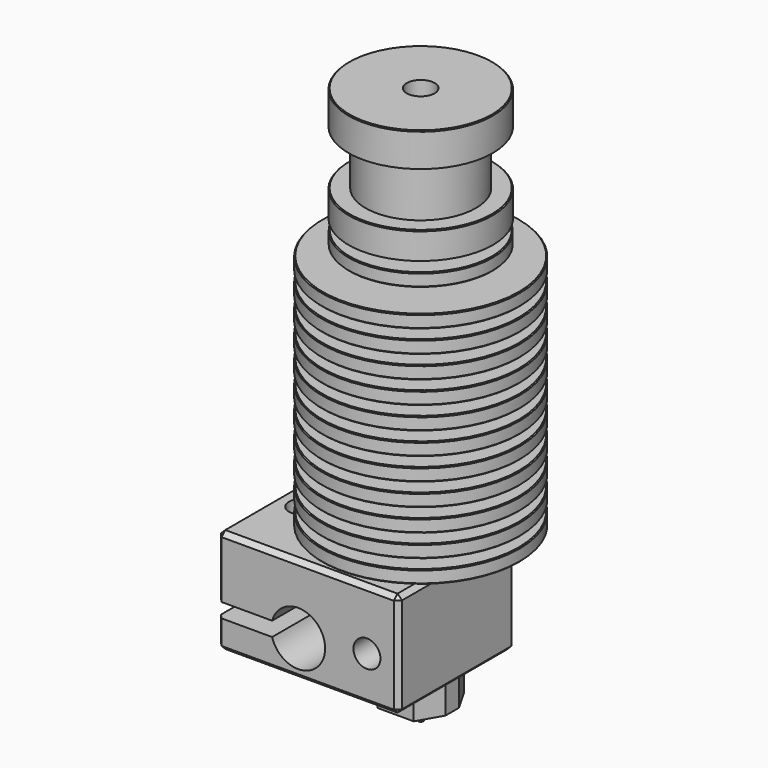
from build123d import *

# Parameters (mm, degrees)
F0_R      = 11
F0_R_2    = 1.55
F1_DEPTH  = 42.85
F4_SIZE   = 0.1
F6_DEPTH  = 2.4
F7_W      = 20.15
F7_H      = 16.2
F7_R      = 1.5
F8_DEPTH  = 11.65
F9_R      = 1.5
F10_DEPTH = 5
F11_DEPTH = 16.2
F12_SIZE  = 0.5
F14_DEPTH = 3
F15_R     = 1.75
F15_R_2   = 0.2
F16_DEPTH = 2


with BuildPart() as f1:
    # F0 (on Top) → F1 (new body)
    with BuildSketch(Plane.XY):
        Circle(F0_R)
        Circle(F0_R_2, mode=Mode.SUBTRACT)
    extrude(amount=F1_DEPTH)

    # F2 (on Front) → F3 (revolve, cut)
    with BuildSketch(Plane.XZ):
        Polygon((10.9999934211, 1.45), (10.9999934211, 0), (14.4045054913, 0), (14.4045054913, 42.85), (8.0165015534, 42.85), (8.0165015534, 39.1), (6.1329784803, 39.1), (6.1329784803, 33.1), (8.0165015534, 33.1), (8.0165015534, 30.1), (4.1999934211, 30.1), (4.1999934211, 28.9512349205), (8, 28.9512349205), (8, 27.5), (4.1999934211, 27.5), (4.1999934211, 26.45), (10.9999934211, 26.45), (10.9999934211, 25), (4.3999934211, 25), (4.3999934211, 23.95), (10.9999934211, 23.95), (10.9999934211, 22.5), (4.5999934211, 22.5), (4.5999934211, 21.45), (10.9999934211, 21.45), (10.9999934211, 20), (4.7999934211, 20), (4.7999934211, 18.95), (10.9999934211, 18.95), (10.9999934211, 17.5), (4.9999934211, 17.5), (4.9999934211, 16.45), (10.9999934211, 16.45), (10.9999934211, 15), (5.1999934211, 15), (5.1999934211, 13.95), (10.9999934211, 13.95), (10.9999934211, 12.5), (5.3999934211, 12.5), (5.3999934211, 11.45), (10.9999934211, 11.45), (10.9999934211, 10), (5.5999934211, 10), (5.5999934211, 8.95), (10.9999934211, 8.95), (10.9999934211, 7.5), (5.7999934211, 7.5), (5.7999934211, 6.45), (10.9999934211, 6.45), (10.9999934211, 5), (5.9999934211, 5), (5.9999934211, 3.95), (10.9999934211, 3.95), (10.9999934211, 2.5), (6.1999934211, 2.5), (6.1999934211, 1.45), align=None)
    revolve(axis=Axis((0, 0, 0), (0, 0, -1)), mode=Mode.SUBTRACT)

    # F4
    f4_edges = [f1.edges().sort_by_distance(p)[0] for p in [
        (-8.016502, 0, 42.85),
        (-8.016502, 0, 33.1),
        (-8, 0, 28.951235),
        (-8, 0, 27.5),
        (-10.999993, 0, 26.45),
        (-10.999993, 0, 25),
        (-10.999993, 0, 23.95),
        (-10.999993, 0, 22.5),
        (-10.999993, 0, 21.45),
        (-10.999993, 0, 20),
        (-10.999993, 0, 18.95),
        (-10.999993, 0, 17.5),
        (-10.999993, 0, 16.45),
        (-10.999993, 0, 15),
        (-10.999993, 0, 13.95),
        (-10.999993, 0, 12.5),
        (-10.999993, 0, 11.45),
        (-10.999993, 0, 10),
        (-10.999993, 0, 8.95),
        (-10.999993, 0, 7.5),
        (-10.999993, 0, 6.45),
        (-10.999993, 0, 5),
        (-10.999993, 0, 3.95),
        (-10.999993, 0, 2.5),
        (-10.999993, 0, 1.45),
        (-10.999993, 0, 0),
    ]]
    chamfer(f4_edges, length=F4_SIZE)

    # F0 (on Top) → F6 (join)
    with BuildSketch(Plane.XY):
        Circle(F0_R_2)
    extrude(amount=-F6_DEPTH)

    # F7 (on offset) → F8 (join)
    with BuildSketch(Plane.XY.offset(-2.4)):
        with Locations((-6.075, 0)):
            Rectangle(F7_W, F7_H)
        with Locations((-13.15, 0)):
            Circle(F7_R, mode=Mode.SUBTRACT)
    extrude(amount=-F8_DEPTH)

    # F9 (on face) → F10 (cut)
    with BuildSketch(Plane.XZ.offset(8.1)):
        with Locations((0.5, -9.05)):
            Circle(F9_R)
    extrude(amount=-F10_DEPTH, mode=Mode.SUBTRACT)

    # F9 (on face) → F11 (cut, through all)
    with BuildSketch(Plane.XZ.offset(8.1)):
        with BuildLine():
            Line((-16.15, -10.85), (-10.041366459, -10.85))
            ThreePointArc((-10.041366459, -10.85), (-4.15, -10.05), (-10.041366459, -9.25))
            Line((-10.041366459, -9.25), (-16.15, -9.25))
            Line((-16.15, -9.25), (-16.15, -10.85))
        make_face()
    extrude(amount=-F11_DEPTH, mode=Mode.SUBTRACT)

    # F12
    f12_edges = [f1.edges().sort_by_distance(p)[0] for p in [
        (4, -8.1, -8.225),
        (-6.075, -8.1, -2.4),
        (-6.075, -8.1, -14.05),
        (4, 0, -14.05),
        (4, 0, -2.4),
        (-16.15, -8.1, -5.825),
        (-16.15, -8.1, -12.45),
        (-16.15, 0, -2.4),
        (-16.15, 8.1, -5.825),
        (-16.15, 8.1, -12.45),
        (-6.075, 8.1, -2.4),
        (4, 8.1, -8.225),
        (-6.075, 8.1, -14.05),
        (-16.15, 0, -14.05),
    ]]
    chamfer(f12_edges, length=F12_SIZE)

    # F13 (on face) → F14 (join)
    with BuildSketch(Plane(origin=(0, 0, -14.05), x_dir=(1, 0, 0), z_dir=(0, 0, -1))):
        Polygon((-2.0207259422, -3.5), (2.0207259422, -3.5), (3.5, -0.9378221735), (3.5, 0.9378221735), (2.0207259422, 3.5), (-2.0207259422, 3.5), (-4.0414518843, 0), align=None)
    extrude(amount=F14_DEPTH)

    # F15 (on face) → F16 (join)
    with BuildSketch(Plane(origin=(0, 0, -17.05), x_dir=(1, 0, 0), z_dir=(0, 0, -1))):
        Circle(F15_R)
        Circle(F15_R_2, mode=Mode.SUBTRACT)
    extrude(amount=F16_DEPTH)

    # F17 (on Right) → F18 (revolve, cut)
    with BuildSketch(Plane.YZ):
        Polygon((1.7610609066, -19.05), (1.7610609066, -17.05), (0.2610609066, -19.05), align=None)
    revolve(axis=Axis((0, 0, -19.05), (0, 0, -1)), mode=Mode.SUBTRACT)


solid = f1.part
